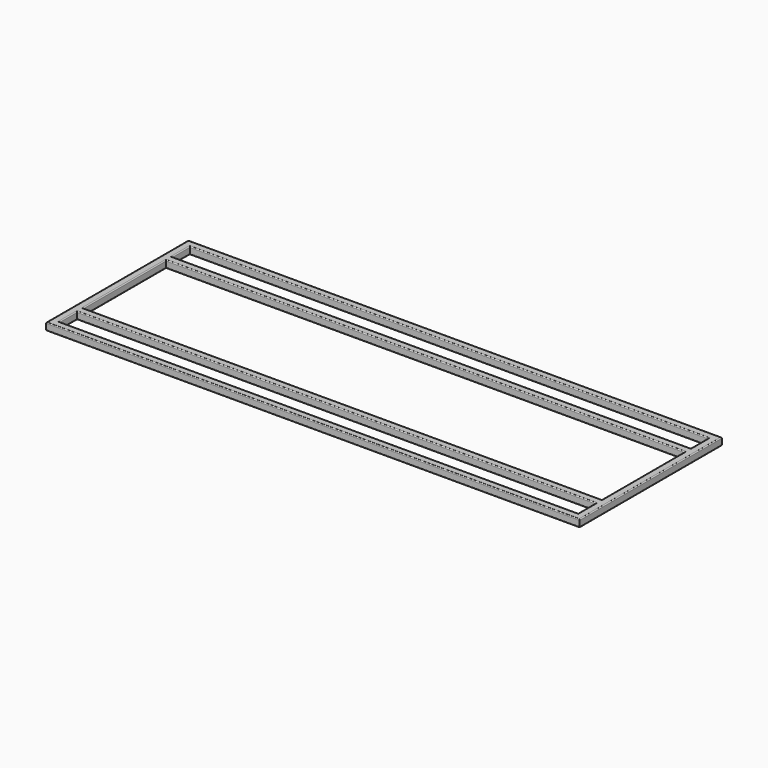
from build123d import *

# Parameters (mm, degrees)
F0_W     = 19.05
F0_H     = 19.05
F3_W     = 19.05
F3_H     = 19.05
F4_DEPTH = 904.875


with BuildPart() as f2:
    # F2: sweep along a path in F1
    with BuildLine(Plane.XY) as f2_path:
        Line((914.4, -304.8), (-914.4, -304.8))
        Line((-914.4, -304.8), (-914.4, 304.8))
        Line((-914.4, 304.8), (914.4, 304.8))
        Line((914.4, 304.8), (914.4, -304.8))
    # F0 (on Right) → F2 (sweep)
    with BuildSketch(Plane.YZ):
        with BuildLine():
            Line((-282.575, 12.7), (-301.625, 12.7))
            ThreePointArc((-301.625, 12.7), (-303.8700640303, 11.7700640303), (-304.8, 9.525))
            Line((-304.8, 9.525), (-304.8, -9.525))
            ThreePointArc((-304.8, -9.525), (-303.8700640303, -11.7700640303), (-301.625, -12.7))
            Line((-301.625, -12.7), (-282.575, -12.7))
            ThreePointArc((-282.575, -12.7), (-280.3299359697, -11.7700640303), (-279.4, -9.525))
            Line((-279.4, -9.525), (-279.4, 9.525))
            ThreePointArc((-279.4, 9.525), (-280.3299359697, 11.7700640303), (-282.575, 12.7))
        make_face()
        with Locations((-292.1, 0)):
            Rectangle(F0_W, F0_H, mode=Mode.SUBTRACT)
    sweep(path=f2_path.line, transition=Transition.RIGHT)

    # F3 (on Right) → F4 (join, symmetric)
    with BuildSketch(Plane.YZ):
        with BuildLine():
            Line((-180.975, 12.7), (-200.025, 12.7))
            ThreePointArc((-200.025, 12.7), (-202.2700640303, 11.7700640303), (-203.2, 9.525))
            Line((-203.2, 9.525), (-203.2, -9.525))
            ThreePointArc((-203.2, -9.525), (-202.2700640303, -11.7700640303), (-200.025, -12.7))
            Line((-200.025, -12.7), (-180.975, -12.7))
            ThreePointArc((-180.975, -12.7), (-178.7299359697, -11.7700640303), (-177.8, -9.525))
            Line((-177.8, -9.525), (-177.8, 9.525))
            ThreePointArc((-177.8, 9.525), (-178.7299359697, 11.7700640303), (-180.975, 12.7))
        make_face()
        with Locations((-190.5, 0)):
            Rectangle(F3_W, F3_H, mode=Mode.SUBTRACT)
        with BuildLine():
            ThreePointArc((200.025, -12.7), (202.2700640303, -11.7700640303), (203.2, -9.525))
            Line((203.2, -9.525), (203.2, 9.525))
            ThreePointArc((203.2, 9.525), (202.2700640303, 11.7700640303), (200.025, 12.7))
            Line((200.025, 12.7), (180.975, 12.7))
            ThreePointArc((180.975, 12.7), (178.7299359697, 11.7700640303), (177.8, 9.525))
            Line((177.8, 9.525), (177.8, -9.525))
            ThreePointArc((177.8, -9.525), (178.7299359697, -11.7700640303), (180.975, -12.7))
            Line((180.975, -12.7), (200.025, -12.7))
        make_face()
        with Locations((190.5, 0)):
            Rectangle(F3_W, F3_H, mode=Mode.SUBTRACT)
    extrude(amount=F4_DEPTH, both=True)


solid = f2.part
